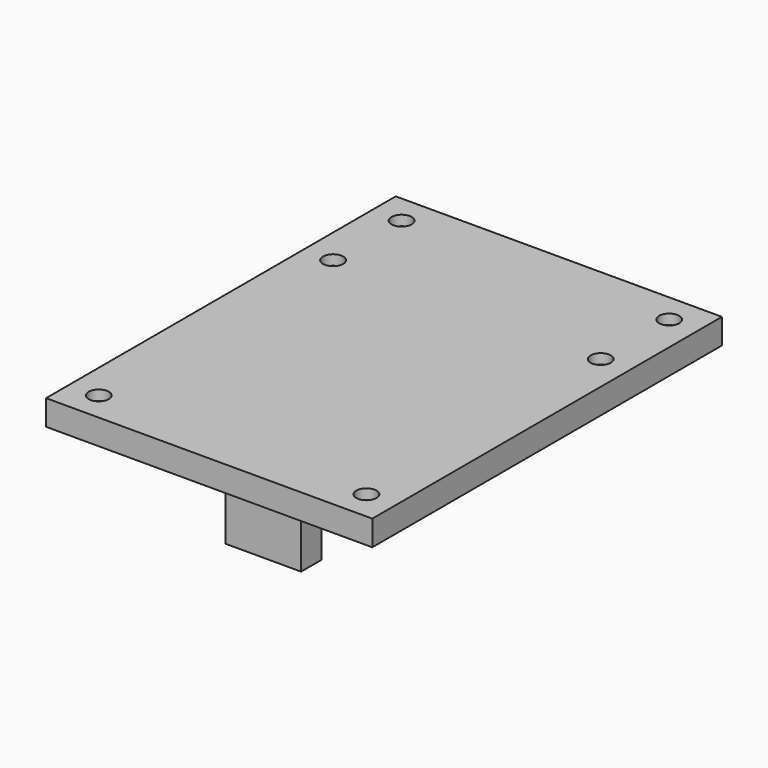
from build123d import *

# Parameters (mm, degrees)
SKETCH014_W             = 64.6
SKETCH014_H             = 86.556
PAD009_DEPTH            = 2
SKETCH015_W             = 64.6
SKETCH015_H             = 86.556
SKETCH015_W_2           = 62.6
SKETCH015_H_2           = 84.556
PAD010_DEPTH            = 5
SKETCH016_W             = 34
SKETCH016_H             = 1.5
PAD011_DEPTH            = 7.433333
SKETCH017_W             = 25
SKETCH017_H             = 15
PAD012_DEPTH            = 4.4
SKETCH018_R             = 2
POCKET005_DEPTH         = 2
SKETCH021_W             = 15
SKETCH021_H             = 5
PAD015_DEPTH            = 16.5
SKETCH022_W             = 4
SKETCH022_H             = 0.8
PAD016_DEPTH            = 17
BODY003_PLACEMENT_ANGLE = 180


with BuildPart() as part:
    # Sketch014 → Pad009 (new body)
    with BuildSketch(Plane.XY):
        Rectangle(SKETCH014_W, SKETCH014_H)
    extrude(amount=PAD009_DEPTH)

    # Sketch015 → Pad010 (join)
    with BuildSketch(Plane.XY):
        Rectangle(SKETCH015_W, SKETCH015_H)
        Rectangle(SKETCH015_W_2, SKETCH015_H_2, mode=Mode.SUBTRACT)
    extrude(amount=PAD010_DEPTH)

    # Sketch016 → Pad011 (join)
    with BuildSketch(Plane.XY):
        with Locations((0, 6.228)):
            Rectangle(SKETCH016_W, SKETCH016_H)
        with Locations((0, -31.228)):
            Rectangle(SKETCH016_W, SKETCH016_H)
    extrude(amount=PAD011_DEPTH)

    # Sketch017 → Pad012 (join)
    with BuildSketch(Plane.XY):
        with Locations((0, -12.5)):
            Rectangle(SKETCH017_W, SKETCH017_H)
    extrude(amount=PAD012_DEPTH)

    # Sketch018 → Pocket005 (cut)
    with BuildSketch(Plane.XY):
        with Locations((-26.5, 37.478)):
            Circle(SKETCH018_R)
        with Locations((-26.5, -37.478)):
            Circle(SKETCH018_R)
        with Locations((-26.5, 20.522)):
            Circle(SKETCH018_R)
        with Locations((26.5, 37.478)):
            Circle(SKETCH018_R)
        with Locations((26.5, 20.522)):
            Circle(SKETCH018_R)
        with Locations((26.5, -37.478)):
            Circle(SKETCH018_R)
    extrude(amount=POCKET005_DEPTH, mode=Mode.SUBTRACT)

    # Sketch021 → Pad015 (join)
    with BuildSketch(Plane.XY):
        with Locations((-7.5, -36.778)):
            Rectangle(SKETCH021_W, SKETCH021_H)
    extrude(amount=PAD015_DEPTH)

    # Sketch022 → Pad016 (join)
    with BuildSketch(Plane.XY):
        with Locations((-6, 39.278)):
            Rectangle(SKETCH022_W, SKETCH022_H)
        with Locations((6, 39.278)):
            Rectangle(SKETCH022_W, SKETCH022_H)
    extrude(amount=PAD016_DEPTH)


with BuildPart() as part_1:
    # Body003 placement: moved
    add(part.part.moved(Location((0, 0, 25.5))).rotate(Axis((0, 0, 25.5), (0, 1, 0)), BODY003_PLACEMENT_ANGLE))


solid = part_1.part
